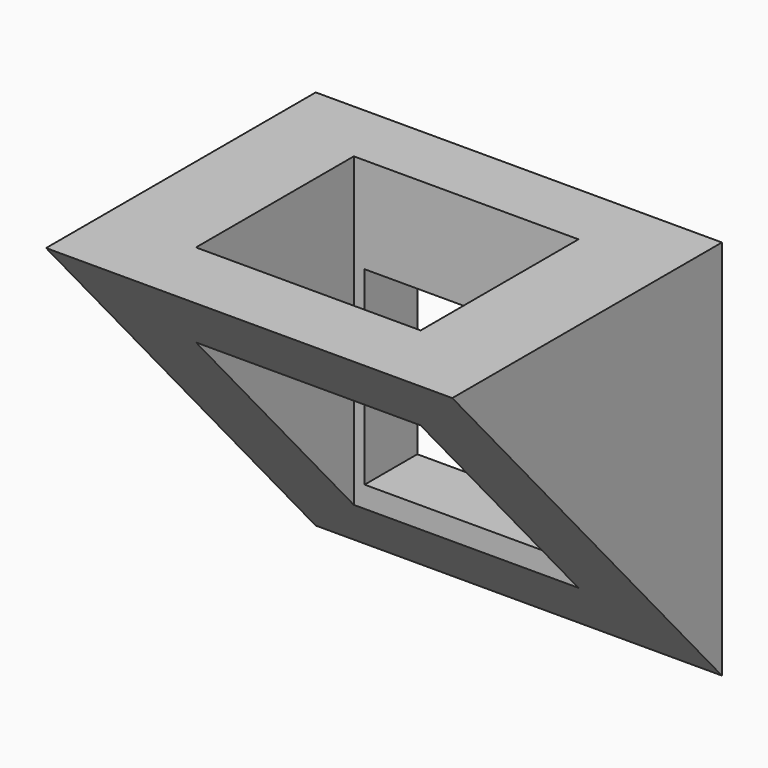
from build123d import *

# Parameters (mm, degrees)
F0_W     = 112.387598
F0_H     = 105.508096
F0_W_2   = 56.171656
F0_H_2   = 52.476138
F1_DEPTH = 93.251504
F3_DEPTH = 50000
F4_W     = 62.165468
F4_H     = 54.584294
F5_DEPTH = 105.509097


with BuildPart() as f1:
    # F0 (on Front) → F1 (new body)
    with BuildSketch(Plane.XZ):
        Rectangle(F0_W, F0_H)
        Rectangle(F0_W_2, F0_H_2, mode=Mode.SUBTRACT)
    extrude(amount=F1_DEPTH)

    # F2 (on face) → F3 (cut, symmetric)
    with BuildSketch(Plane(origin=(-56.193799, 0, 0), x_dir=(0, -1, 0), z_dir=(-1, 0, 0))):
        Polygon((93.251504, 52.754048), (0, -52.754048), (93.251504, -52.754048), align=None)
    extrude(amount=F3_DEPTH, both=True, mode=Mode.SUBTRACT)

    # F4 (on face) → F5 (cut, through all)
    with BuildSketch(Plane.XY.offset(52.754048)):
        with Locations((0, -45.515299)):
            Rectangle(F4_W, F4_H)
    extrude(amount=-F5_DEPTH, mode=Mode.SUBTRACT)


solid = f1.part
